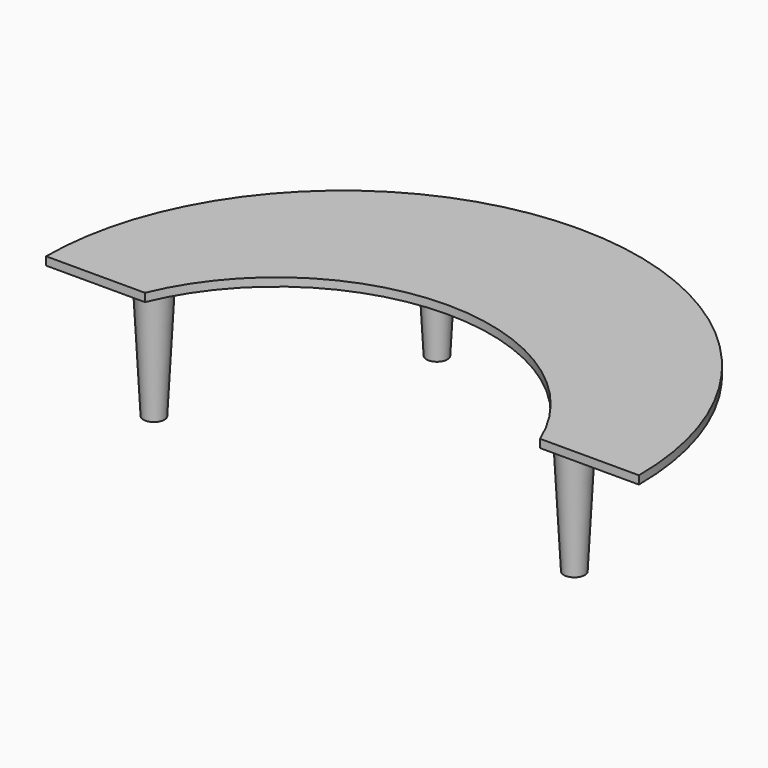
from build123d import *

# Parameters (mm, degrees)
F0_R     = 50
F1_DEPTH = 25
F2_DEPTH = 350
F2_TAPER = 3


with BuildPart() as f1:
    # F0 (on Top) → F1 (new body)
    with BuildSketch(Plane.XY):
        with BuildLine():
            Line((600, 0), (900, 0))
            ThreePointArc((900, 0), (0, 900), (-900, 0))
            Line((-900, 0), (-600, 0))
            ThreePointArc((-600, 0), (0, 399.4984909986), (600, 0))
        make_face()
        with Locations((-638.203561306, 82.0790380239)):
            Circle(F0_R, mode=Mode.SUBTRACT)
        with Locations((-307.7002465725, 743.0856823921)):
            Circle(F0_R, mode=Mode.SUBTRACT)
        with Locations((638.203561306, 82.0790380239)):
            Circle(F0_R, mode=Mode.SUBTRACT)
        with Locations((307.7002465725, 743.0856823921)):
            Circle(F0_R, mode=Mode.SUBTRACT)
        with Locations((-638.203561306, 82.0790380239)):
            Circle(F0_R)
        with Locations((-307.7002465725, 743.0856823921)):
            Circle(F0_R)
        with Locations((307.7002465725, 743.0856823921)):
            Circle(F0_R)
        with Locations((638.203561306, 82.0790380239)):
            Circle(F0_R)
    extrude(amount=F1_DEPTH)


with BuildPart() as f2:
    # F0 (on Top) → F2 (new body)
    with BuildSketch(Plane.XY):
        with Locations((-638.203561306, 82.0790380239)):
            Circle(F0_R)
    extrude(amount=-F2_DEPTH, taper=F2_TAPER)


with BuildPart() as f2b:
    # F0 (on Top) → F2, piece 2 (new body)
    with BuildSketch(Plane.XY):
        with Locations((-307.7002465725, 743.0856823921)):
            Circle(F0_R)
    extrude(amount=-F2_DEPTH, taper=F2_TAPER)


with BuildPart() as f2c:
    # F0 (on Top) → F2, piece 3 (new body)
    with BuildSketch(Plane.XY):
        with Locations((307.7002465725, 743.0856823921)):
            Circle(F0_R)
    extrude(amount=-F2_DEPTH, taper=F2_TAPER)


with BuildPart() as f2d:
    # F0 (on Top) → F2, piece 4 (new body)
    with BuildSketch(Plane.XY):
        with Locations((638.203561306, 82.0790380239)):
            Circle(F0_R)
    extrude(amount=-F2_DEPTH, taper=F2_TAPER)


solid = Compound([f1.part, f2.part, f2b.part, f2c.part, f2d.part])
